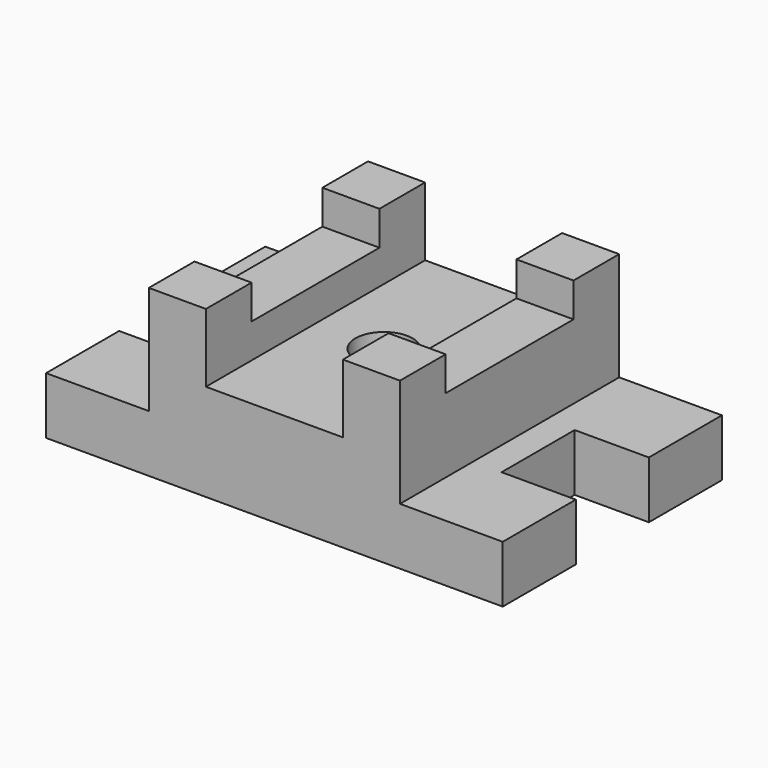
from build123d import *

# Parameters (mm, degrees)
F1_DEPTH = 152.4
F2_W     = 88.9
F2_H     = 19.05
F3_DEPTH = 152.4
F4_W     = 41.275
F4_H     = 50.8
F5_DEPTH = 50.8
F6_W     = 41.275
F6_H     = 50.8
F7_DEPTH = 50.8
F8_R     = 15.875
F9_DEPTH = 152.4


with BuildPart() as f1:
    # F0 (on Front) → F1 (new body)
    with BuildSketch(Plane.XZ):
        Polygon((45.763793, 0), (0, 0), (-30.436207, 0), (-30.436207, 38.1), (-62.186207, 38.1), (-62.186207, -22.225), (-119.336207, -22.225), (-119.336207, -53.975), (134.663793, -53.975), (134.663793, -22.225), (77.513793, -22.225), (77.513793, 38.1), (45.763793, 38.1), align=None)
    extrude(amount=F1_DEPTH)

    # F2 (on face) → F3 (cut)
    with BuildSketch(Plane.YZ.offset(77.513793)):
        with Locations((-76.2, 28.575)):
            Rectangle(F2_W, F2_H)
    extrude(amount=-F3_DEPTH, mode=Mode.SUBTRACT)

    # F4 (on face) → F5 (cut)
    with BuildSketch(Plane.XY.offset(-22.225)):
        with Locations((-98.698707, -76.2)):
            Rectangle(F4_W, F4_H)
    extrude(amount=-F5_DEPTH, mode=Mode.SUBTRACT)

    # F6 (on face) → F7 (cut)
    with BuildSketch(Plane.XY.offset(-22.225)):
        with Locations((114.026293, -76.2)):
            Rectangle(F6_W, F6_H)
    extrude(amount=-F7_DEPTH, mode=Mode.SUBTRACT)

    # F8 (on face) → F9 (cut)
    with BuildSketch(Plane.XY):
        with Locations((7.663793, -76.2)):
            Circle(F8_R)
    extrude(amount=-F9_DEPTH, mode=Mode.SUBTRACT)


solid = f1.part
